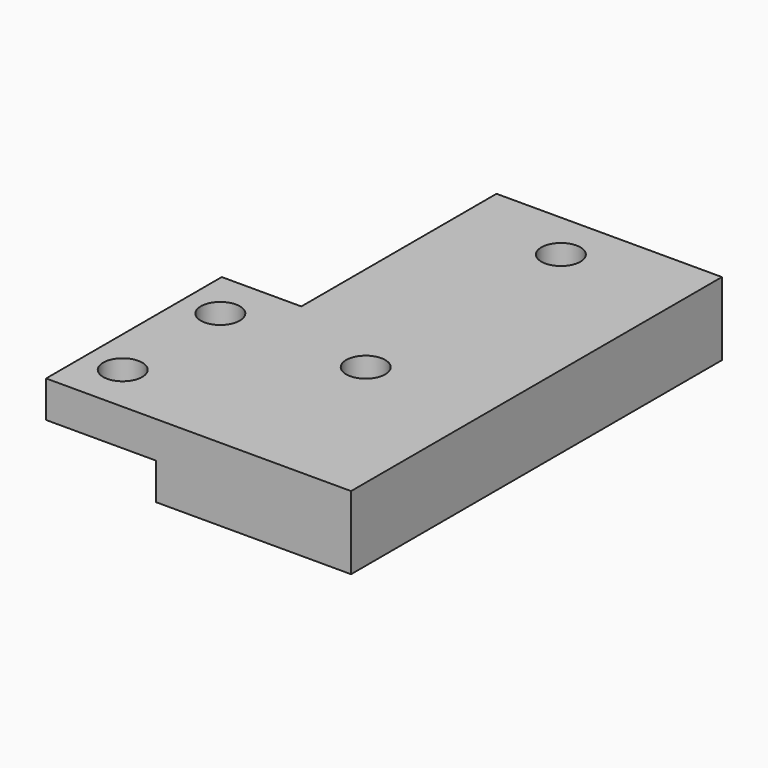
from build123d import *

# Parameters (mm, degrees)
SKETCH_W     = 16
SKETCH_H     = 38
SKETCH_R     = 1.6
PAD_DEPTH    = 3
SKETCH002_R  = 1.6
PAD001_DEPTH = 3


with BuildPart() as part:
    # Sketch → Pad (new body)
    with BuildSketch(Plane.XY):
        with Locations((2, 5)):
            Rectangle(SKETCH_W, SKETCH_H)
        Circle(SKETCH_R, mode=Mode.SUBTRACT)
        with Locations((0, 20)):
            Circle(SKETCH_R, mode=Mode.SUBTRACT)
    extrude(amount=PAD_DEPTH)

    # Sketch002 → Pad001 (join)
    with BuildSketch(Plane.XY.offset(3)):
        Polygon((-15, -14), (-15, 4), (-8.477261, 4), (-8.477261, 24), (10, 24), (10, -14), align=None)
        with Locations((0, 20)):
            Circle(SKETCH002_R, mode=Mode.SUBTRACT)
        Circle(SKETCH002_R, mode=Mode.SUBTRACT)
        with Locations((-11.917612, 0)):
            Circle(SKETCH002_R, mode=Mode.SUBTRACT)
        with Locations((-11.917612, -10)):
            Circle(SKETCH002_R, mode=Mode.SUBTRACT)
    extrude(amount=PAD001_DEPTH)


solid = part.part
